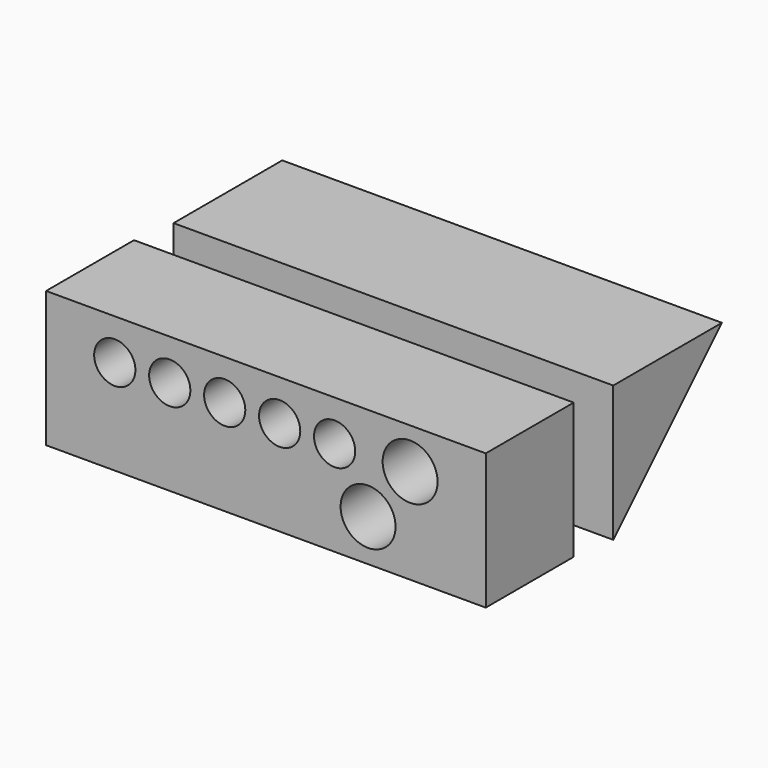
from build123d import *

# Parameters (mm, degrees)
F0_W     = 101.6
F0_H     = 31.387029
F0_R     = 6.35
F0_R_2   = 4.7625
F1_DEPTH = 25.4
F3_DEPTH = 50.8


with BuildPart() as f1:
    # F0 (on Front) → F1 (new body)
    with BuildSketch(Plane.XZ):
        with Locations((0, 3.356486)):
            Rectangle(F0_W, F0_H)
        with Locations((23.606425, -2.682731)):
            Circle(F0_R, mode=Mode.SUBTRACT)
        with Locations((-34.925, 9.640971)):
            Circle(F0_R_2, mode=Mode.SUBTRACT)
        with Locations((-22.225, 9.640971)):
            Circle(F0_R_2, mode=Mode.SUBTRACT)
        with Locations((-9.525684, 9.772734)):
            Circle(F0_R_2, mode=Mode.SUBTRACT)
        with Locations((3.173633, 9.640971)):
            Circle(F0_R_2, mode=Mode.SUBTRACT)
        with Locations((15.873633, 9.640971)):
            Circle(F0_R_2, mode=Mode.SUBTRACT)
        with Locations((33.3248, 9.640971)):
            Circle(F0_R, mode=Mode.SUBTRACT)
    extrude(amount=F1_DEPTH)


with BuildPart() as f3:
    # F2 (on Right) → F3 (new body, symmetric)
    with BuildSketch(Plane.YZ):
        Polygon((24.933794, 17.880932), (11.420327, 17.880932), (11.420327, -13.513468), (24.933794, 0), (42.814727, 17.880932), align=None)
    extrude(amount=F3_DEPTH, both=True)


solid = Compound([f1.part, f3.part])
